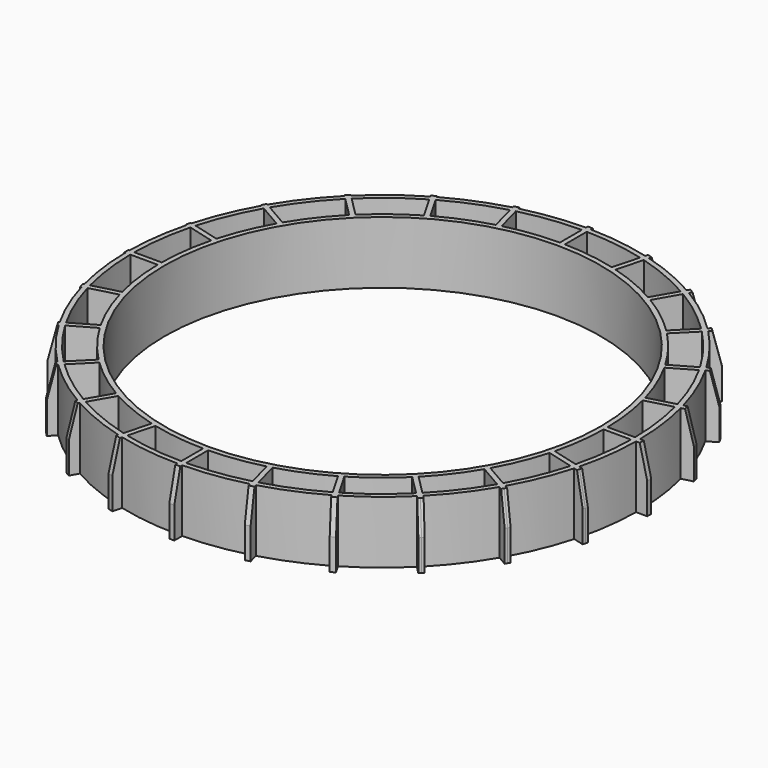
from build123d import *

# Parameters (mm, degrees)
F0_R     = 35
F1_DEPTH = 10
F2_SIZE2 = 5
F2_SIZE  = 1.2


with BuildPart() as f1:
    # F0 (on Top) → F1 (new body)
    with BuildSketch(Plane.XY):
        with BuildLine():
            ThreePointArc((39.5126340711, 10.9431142169), (39.617515779, 10.5571039353), (39.7186265378, 10.1700887876))
            Line((39.7186265378, 10.1700887876), (41.4504177245, 10.6341208376))
            Line((41.4504177245, 10.6341208376), (41.3468901065, 11.0204911681))
            Line((41.3468901065, 11.0204911681), (41.2433624884, 11.4068614986))
            Line((41.2433624884, 11.4068614986), (39.5126340711, 10.9431142168))
        make_face()
        with BuildLine():
            ThreePointArc((35.3606110503, 20.7515586439), (35.5613831067, 20.4055882429), (35.758770275, 20.0576755487))
            Line((35.758770275, 20.0576755487), (37.293139292, 20.9435439137))
            Line((37.293139292, 20.9435439137), (37.093139292, 21.2899540753))
            Line((37.093139292, 21.2899540753), (36.893139292, 21.6363642368))
            Line((36.893139292, 21.6363642368), (35.3606110503, 20.7515586439))
        make_face()
        with BuildLine():
            ThreePointArc((28.8169422428, 29.1647705249), (29.100107127, 28.8822396153), (29.3805021161, 28.5969595483))
            Line((29.3805021161, 28.5969595483), (30.6092416509, 29.8256990831))
            Line((30.6092416509, 29.8256990831), (30.3263989384, 30.1085417955))
            Line((30.3263989384, 30.1085417955), (30.0435562259, 30.391384508))
            Line((30.0435562259, 30.391384508), (28.8169422428, 29.1647705249))
        make_face()
        with BuildLine():
            ThreePointArc((20.316710374, 35.6122349703), (20.6631835614, 35.4123261748), (21.0076899088, 35.2090466315))
            Line((21.0076899088, 35.2090466315), (21.8542213796, 36.6752821492))
            Line((21.8542213796, 36.6752821492), (21.5078112181, 36.8752821492))
            Line((21.5078112181, 36.8752821492), (21.1614010566, 37.0752821492))
            Line((21.1614010566, 37.0752821492), (20.316710374, 35.6122349703))
        make_face()
        with BuildLine():
            ThreePointArc((10.4283605758, 39.6515989047), (10.814714221, 39.5479703186), (11.2000384545, 39.4405773109))
            Line((11.2000384545, 39.4405773109), (11.6247186414, 41.0255053456))
            Line((11.6247186414, 41.0255053456), (11.2383483109, 41.1290329636))
            Line((11.2383483109, 41.1290329636), (10.8519779804, 41.2325605816))
            Line((10.8519779804, 41.2325605816), (10.4283605758, 39.6515989047))
        make_face()
        with BuildLine():
            ThreePointArc((-0.1821428571, 40.9995954124), (0.2178675119, 40.9994211392), (0.6178571429, 40.995344279))
            Line((0.6178571429, 40.995344279), (0.6178571429, 42.5799081505))
            Line((0.6178571429, 42.5799081505), (0.2178571429, 42.5799081505))
            Line((0.2178571429, 42.5799081505), (-0.1821428571, 42.5799081505))
            Line((-0.1821428571, 42.5799081505), (-0.1821428571, 40.9995954124))
        make_face()
        with BuildLine():
            ThreePointArc((-10.7945742739, 39.5534722401), (-10.4081679092, 39.6569040745), (-10.0207708305, 39.7565611184))
            Line((-10.0207708305, 39.7565611184), (-10.4162636947, 41.2325605816))
            Line((-10.4162636947, 41.2325605816), (-10.8026340252, 41.1290329636))
            Line((-10.8026340252, 41.1290329636), (-11.1890043557, 41.0255053456))
            Line((-11.1890043557, 41.0255053456), (-10.7945742739, 39.5534722401))
        make_face()
        with BuildLine():
            ThreePointArc((-20.6827449828, 35.4009047904), (-20.3363822937, 35.6010049746), (-19.9880838715, 35.7977164516))
            Line((-19.9880838715, 35.7977164516), (-20.7256867709, 37.0752821492))
            Line((-20.7256867709, 37.0752821492), (-21.0720969324, 36.8752821492))
            Line((-21.0720969324, 36.8752821492), (-21.4185070939, 36.6752821492))
            Line((-21.4185070939, 36.6752821492), (-20.6827449828, 35.4009047904))
        make_face()
        with BuildLine():
            ThreePointArc((-29.1647705249, 28.8169422428), (-28.8822396153, 29.100107127), (-28.5969595483, 29.3805021161))
            Line((-28.5969595483, 29.3805021161), (-29.6078419402, 30.391384508))
            Line((-29.6078419402, 30.391384508), (-29.8906846527, 30.1085417955))
            Line((-29.8906846527, 30.1085417955), (-30.1735273652, 29.8256990831))
            Line((-30.1735273652, 29.8256990831), (-29.1647705249, 28.8169422428))
        make_face()
        with BuildLine():
            ThreePointArc((-35.6516824789, 20.247408141), (-35.4524493509, 20.5942670427), (-35.2498417036, 20.9391656919))
            Line((-35.2498417036, 20.9391656919), (-36.4574250063, 21.6363642368))
            Line((-36.4574250063, 21.6363642368), (-36.6574250063, 21.2899540753))
            Line((-36.6574250063, 21.2899540753), (-36.8574250063, 20.9435439137))
            Line((-36.8574250063, 20.9435439137), (-35.6516824789, 20.247408141))
        make_face()
        with BuildLine():
            ThreePointArc((-39.6905019844, 10.2793021272), (-39.5883270671, 10.6660376911), (-39.482383979, 11.0517580201))
            Line((-39.482383979, 11.0517580201), (-40.8076482027, 11.4068614986))
            Line((-40.8076482027, 11.4068614986), (-40.9111758208, 11.0204911681))
            Line((-40.9111758208, 11.0204911681), (-41.0147034388, 10.6341208376))
            Line((-41.0147034388, 10.6341208376), (-39.6905019844, 10.2793021272))
        make_face()
        with BuildLine():
            ThreePointArc((-40.9980487341, -0.4), (-41, 0), (-40.9980487341, 0.4))
            Line((-40.9980487341, 0.4), (-42.3620510077, 0.4))
            Line((-42.3620510077, 0.4), (-42.3620510077, 0))
            Line((-42.3620510077, 0), (-42.3620510077, -0.4))
            Line((-42.3620510077, -0.4), (-40.9980487341, -0.4))
        make_face()
        with BuildLine():
            Line((-40.8076482027, -11.4068614986), (-39.482383979, -11.0517580201))
            ThreePointArc((-39.482383979, -11.0517580201), (-39.5883270671, -10.6660376911), (-39.6905019844, -10.2793021272))
            Line((-39.6905019844, -10.2793021272), (-41.0147034388, -10.6341208376))
            Line((-41.0147034388, -10.6341208376), (-40.9111758208, -11.0204911681))
            Line((-40.9111758208, -11.0204911681), (-40.8076482027, -11.4068614986))
        make_face()
        with BuildLine():
            Line((-36.4574250063, -21.6363642368), (-35.2498417036, -20.9391656919))
            ThreePointArc((-35.2498417036, -20.9391656919), (-35.4524493509, -20.5942670427), (-35.6516824789, -20.247408141))
            Line((-35.6516824789, -20.247408141), (-36.8574250063, -20.9435439137))
            Line((-36.8574250063, -20.9435439137), (-36.6574250063, -21.2899540753))
            Line((-36.6574250063, -21.2899540753), (-36.4574250063, -21.6363642368))
        make_face()
        with BuildLine():
            Line((-29.6078419402, -30.391384508), (-28.5969595483, -29.3805021161))
            ThreePointArc((-28.5969595483, -29.3805021161), (-28.8822396153, -29.100107127), (-29.1647705249, -28.8169422428))
            Line((-29.1647705249, -28.8169422428), (-30.1735273652, -29.8256990831))
            Line((-30.1735273652, -29.8256990831), (-29.8906846527, -30.1085417955))
            Line((-29.8906846527, -30.1085417955), (-29.6078419402, -30.391384508))
        make_face()
        with BuildLine():
            Line((-20.7256867709, -37.0752821492), (-19.9880838715, -35.7977164516))
            ThreePointArc((-19.9880838715, -35.7977164516), (-20.3363822937, -35.6010049746), (-20.6827449828, -35.4009047904))
            Line((-20.6827449828, -35.4009047904), (-21.4185070939, -36.6752821492))
            Line((-21.4185070939, -36.6752821492), (-21.0720969324, -36.8752821492))
            Line((-21.0720969324, -36.8752821492), (-20.7256867709, -37.0752821492))
        make_face()
        with BuildLine():
            Line((-10.4162636947, -41.2325605816), (-10.0207708305, -39.7565611184))
            ThreePointArc((-10.0207708305, -39.7565611184), (-10.4081679092, -39.6569040745), (-10.7945742739, -39.5534722401))
            Line((-10.7945742739, -39.5534722401), (-11.1890043557, -41.0255053456))
            Line((-11.1890043557, -41.0255053456), (-10.8026340252, -41.1290329636))
            Line((-10.8026340252, -41.1290329636), (-10.4162636947, -41.2325605816))
        make_face()
        with BuildLine():
            Line((0.6178571429, -42.5799081505), (0.6178571429, -40.995344279))
            ThreePointArc((0.6178571429, -40.995344279), (0.2178675119, -40.9994211392), (-0.1821428571, -40.9995954124))
            Line((-0.1821428571, -40.9995954124), (-0.1821428571, -42.5799081505))
            Line((-0.1821428571, -42.5799081505), (0.2178571429, -42.5799081505))
            Line((0.2178571429, -42.5799081505), (0.6178571429, -42.5799081505))
        make_face()
        with BuildLine():
            Line((11.6247186414, -41.0255053456), (11.2000384545, -39.4405773109))
            ThreePointArc((11.2000384545, -39.4405773109), (10.814714221, -39.5479703186), (10.4283605758, -39.6515989047))
            Line((10.4283605758, -39.6515989047), (10.8519779804, -41.2325605816))
            Line((10.8519779804, -41.2325605816), (11.2383483109, -41.1290329636))
            Line((11.2383483109, -41.1290329636), (11.6247186414, -41.0255053456))
        make_face()
        with BuildLine():
            Line((21.8542213796, -36.6752821492), (21.0076899088, -35.2090466315))
            ThreePointArc((21.0076899088, -35.2090466315), (20.6631835614, -35.4123261748), (20.316710374, -35.6122349703))
            Line((20.316710374, -35.6122349703), (21.1614010566, -37.0752821492))
            Line((21.1614010566, -37.0752821492), (21.5078112181, -36.8752821492))
            Line((21.5078112181, -36.8752821492), (21.8542213796, -36.6752821492))
        make_face()
        with BuildLine():
            Line((30.6092416509, -29.8256990831), (29.3805021161, -28.5969595483))
            ThreePointArc((29.3805021161, -28.5969595483), (29.100107127, -28.8822396153), (28.8169422428, -29.1647705249))
            Line((28.8169422428, -29.1647705249), (30.0435562259, -30.391384508))
            Line((30.0435562259, -30.391384508), (30.3263989384, -30.1085417955))
            Line((30.3263989384, -30.1085417955), (30.6092416509, -29.8256990831))
        make_face()
        with BuildLine():
            Line((37.293139292, -20.9435439137), (35.758770275, -20.0576755487))
            ThreePointArc((35.758770275, -20.0576755487), (35.5613831067, -20.4055882429), (35.3606110503, -20.7515586439))
            Line((35.3606110503, -20.7515586439), (36.893139292, -21.6363642368))
            Line((36.893139292, -21.6363642368), (37.093139292, -21.2899540753))
            Line((37.093139292, -21.2899540753), (37.293139292, -20.9435439137))
        make_face()
        with BuildLine():
            Line((41.4504177245, -10.6341208376), (39.7186265378, -10.1700887876))
            ThreePointArc((39.7186265378, -10.1700887876), (39.617515779, -10.5571039353), (39.5126340711, -10.9431142169))
            Line((39.5126340711, -10.9431142168), (41.2433624884, -11.4068614986))
            Line((41.2433624884, -11.4068614986), (41.3468901065, -11.0204911681))
            Line((41.3468901065, -11.0204911681), (41.4504177245, -10.6341208376))
        make_face()
        with BuildLine():
            Line((42.7977652934, 0.4), (40.9980487341, 0.4))
            ThreePointArc((40.9980487341, 0.4), (40.9995121806, 0.2000023796), (41, 0))
            ThreePointArc((41, 0), (40.9995121806, -0.2000023796), (40.9980487341, -0.4))
            Line((40.9980487341, -0.4), (42.7977652934, -0.4))
            Line((42.7977652934, -0.4), (42.7977652934, 0))
            Line((42.7977652934, 0), (42.7977652934, 0.4))
        make_face()
        with BuildLine():
            ThreePointArc((38.9458370454, 9.9630204672), (39.8597537308, 5.2191984553), (40.198009901, 0.4))
            Line((40.198009901, 0.4), (40.9980487341, 0.4))
            ThreePointArc((40.9980487341, 0.4), (40.6529098032, 5.3236194956), (39.7186265378, 10.1700887876))
            Line((39.7186265378, 10.1700887876), (38.9458370454, 9.9630204672))
        make_face()
        with BuildLine():
            ThreePointArc((35.0658955085, 19.6576441158), (37.1715119605, 15.3074719849), (38.7398657305, 10.736051564))
            Line((38.7398657305, 10.736051564), (39.5126340711, 10.9431142168))
            ThreePointArc((39.5126340711, 10.9431142169), (37.9106170502, 15.6136195314), (35.758770275, 20.0576755487))
            Line((35.758770275, 20.0576755487), (35.0658955085, 19.6576441158))
        make_face()
        with BuildLine():
            ThreePointArc((28.8147640057, 28.0312214379), (31.9726831571, 24.3677559848), (34.66777292, 20.3515483629))
            Line((34.66777292, 20.3515483629), (35.3606110503, 20.7515586439))
            ThreePointArc((35.3606110503, 20.7515586439), (32.6073689884, 24.8547679059), (29.3805021161, 28.5969595483))
            Line((29.3805021161, 28.5969595483), (28.8147640057, 28.0312214379))
        make_face()
        with BuildLine():
            ThreePointArc((20.6076478524, 34.5161534646), (24.6079426814, 31.7881921001), (28.2512464367, 28.5990747188))
            Line((28.2512464367, 28.5990747188), (28.8169422428, 29.1647705249))
            ThreePointArc((28.8169422428, 29.1647705249), (25.0949558811, 32.4228806451), (21.0076899088, 35.2090466315))
            Line((21.0076899088, 35.2090466315), (20.6076478524, 34.5161534646))
        make_face()
        with BuildLine():
            ThreePointArc((10.9929598086, 38.6677492834), (15.5680559054, 37.0631304038), (19.9167049546, 34.9194052605))
            Line((19.9167049546, 34.9194052605), (20.316710374, 35.6122349703))
            ThreePointArc((20.316710374, 35.6122349703), (15.8742059786, 37.8022431153), (11.2000384545, 39.4405773109))
            Line((11.2000384545, 39.4405773109), (10.9929598086, 38.6677492834))
        make_face()
        with BuildLine():
            ThreePointArc((0.6178571429, 40.195251617), (5.4594026249, 39.8275648638), (10.2213030825, 38.8788498196))
            Line((10.2213030825, 38.8788498196), (10.4283605758, 39.6515989047))
            ThreePointArc((10.4283605758, 39.6515989047), (5.563824618, 40.620731845), (0.6178571429, 40.995344279))
            Line((0.6178571429, 40.995344279), (0.6178571429, 40.195251617))
        make_face()
        with BuildLine():
            ThreePointArc((-9.8136921846, 38.9837330909), (-5.0347547057, 39.8834708251), (-0.1821428571, 40.1995873608))
            Line((-0.1821428571, 40.1995873608), (-0.1821428571, 40.9995954124))
            ThreePointArc((-0.1821428571, 40.9995954124), (-5.1391775114, 40.6766376991), (-10.0207708305, 39.7565611184))
            Line((-10.0207708305, 39.7565611184), (-9.8136921846, 38.9837330909))
        make_face()
        with BuildLine():
            ThreePointArc((-19.5880418151, 35.1048232847), (-15.1993139353, 37.2158683346), (-10.5875167806, 38.780723155))
            Line((-10.5875167806, 38.780723155), (-10.7945742739, 39.5534722401))
            ThreePointArc((-10.7945742739, 39.5534722401), (-15.5054647144, 37.9549807534), (-19.9880838715, 35.7977164516))
            Line((-19.9880838715, 35.7977164516), (-19.5880418151, 35.1048232847))
        make_face()
        with BuildLine():
            ThreePointArc((-28.0312214379, 28.8147640057), (-24.3360326628, 31.9968360035), (-20.2827395634, 34.7080750807))
            Line((-20.2827395634, 34.7080750807), (-20.6827449828, 35.4009047904))
            ThreePointArc((-20.6827449828, 35.4009047904), (-24.8230463835, 32.6315241483), (-28.5969595483, 29.3805021161))
            Line((-28.5969595483, 29.3805021161), (-28.0312214379, 28.8147640057))
        make_face()
        with BuildLine():
            ThreePointArc((-34.5569669371, 20.5391342589), (-31.8125850564, 24.5763998997), (-28.5990747188, 28.2512464367))
            Line((-28.5990747188, 28.2512464367), (-29.1647705249, 28.8169422428))
            ThreePointArc((-29.1647705249, 28.8169422428), (-32.4472711947, 25.0634114201), (-35.2498417036, 20.9391656919))
            Line((-35.2498417036, 20.9391656919), (-34.5569669371, 20.5391342589))
        make_face()
        with BuildLine():
            ThreePointArc((-38.7095944866, 10.8446896997), (-37.1082458311, 15.4602099385), (-34.9588443486, 19.8473978599))
            Line((-34.9588443486, 19.8473978599), (-35.6516824789, 20.247408141))
            ThreePointArc((-35.6516824789, 20.247408141), (-37.8473510422, 15.7663571915), (-39.482383979, 11.0517580201))
            Line((-39.482383979, 11.0517580201), (-38.7095944866, 10.8446896997))
        make_face()
        with BuildLine():
            ThreePointArc((-40.198009901, 0.4), (-39.8523935702, 5.275104428), (-38.9177336438, 10.0722394744))
            Line((-38.9177336438, 10.0722394744), (-39.6905019844, 10.2793021272))
            ThreePointArc((-39.6905019844, 10.2793021272), (-40.6455496567, 5.3795253607), (-40.9980487341, 0.4))
            Line((-40.9980487341, 0.4), (-40.198009901, 0.4))
        make_face()
        with BuildLine():
            Line((-39.6905019844, -10.2793021272), (-38.9177336438, -10.0722394744))
            ThreePointArc((-38.9177336438, -10.0722394744), (-39.8523935702, -5.275104428), (-40.198009901, -0.4))
            Line((-40.198009901, -0.4), (-40.9980487341, -0.4))
            ThreePointArc((-40.9980487341, -0.4), (-40.6455496567, -5.3795253607), (-39.6905019844, -10.2793021272))
        make_face()
        with BuildLine():
            Line((-35.6516824789, -20.247408141), (-34.9588443486, -19.8473978599))
            ThreePointArc((-34.9588443486, -19.8473978599), (-37.1082458311, -15.4602099385), (-38.7095944866, -10.8446896997))
            Line((-38.7095944866, -10.8446896997), (-39.482383979, -11.0517580201))
            ThreePointArc((-39.482383979, -11.0517580201), (-37.8473510422, -15.7663571915), (-35.6516824789, -20.247408141))
        make_face()
        with BuildLine():
            Line((-29.1647705249, -28.8169422428), (-28.5990747188, -28.2512464367))
            ThreePointArc((-28.5990747188, -28.2512464367), (-31.8125850564, -24.5763998997), (-34.5569669371, -20.5391342589))
            Line((-34.5569669371, -20.5391342589), (-35.2498417036, -20.9391656919))
            ThreePointArc((-35.2498417036, -20.9391656919), (-32.4472711947, -25.0634114201), (-29.1647705249, -28.8169422428))
        make_face()
        with BuildLine():
            Line((-20.6827449828, -35.4009047904), (-20.2827395634, -34.7080750807))
            ThreePointArc((-20.2827395634, -34.7080750807), (-24.3360326628, -31.9968360035), (-28.0312214379, -28.8147640057))
            Line((-28.0312214379, -28.8147640057), (-28.5969595483, -29.3805021161))
            ThreePointArc((-28.5969595483, -29.3805021161), (-24.8230463835, -32.6315241483), (-20.6827449828, -35.4009047904))
        make_face()
        with BuildLine():
            Line((-10.7945742739, -39.5534722401), (-10.5875167806, -38.780723155))
            ThreePointArc((-10.5875167806, -38.780723155), (-15.1993139353, -37.2158683346), (-19.5880418151, -35.1048232847))
            Line((-19.5880418151, -35.1048232847), (-19.9880838715, -35.7977164516))
            ThreePointArc((-19.9880838715, -35.7977164516), (-15.5054647144, -37.9549807534), (-10.7945742739, -39.5534722401))
        make_face()
        with BuildLine():
            Line((-0.1821428571, -40.9995954124), (-0.1821428571, -40.1995873608))
            ThreePointArc((-0.1821428571, -40.1995873608), (-5.0347547057, -39.8834708251), (-9.8136921846, -38.9837330909))
            Line((-9.8136921846, -38.9837330909), (-10.0207708305, -39.7565611184))
            ThreePointArc((-10.0207708305, -39.7565611184), (-5.1391775114, -40.6766376991), (-0.1821428571, -40.9995954124))
        make_face()
        with BuildLine():
            Line((10.4283605758, -39.6515989047), (10.2213030825, -38.8788498196))
            ThreePointArc((10.2213030825, -38.8788498196), (5.4594026249, -39.8275648638), (0.6178571429, -40.195251617))
            Line((0.6178571429, -40.195251617), (0.6178571429, -40.995344279))
            ThreePointArc((0.6178571429, -40.995344279), (5.563824618, -40.620731845), (10.4283605758, -39.6515989047))
        make_face()
        with BuildLine():
            Line((20.316710374, -35.6122349703), (19.9167049546, -34.9194052605))
            ThreePointArc((19.9167049546, -34.9194052605), (15.5680559054, -37.0631304038), (10.9929598086, -38.6677492834))
            Line((10.9929598086, -38.6677492834), (11.2000384545, -39.4405773109))
            ThreePointArc((11.2000384545, -39.4405773109), (15.8742059786, -37.8022431153), (20.316710374, -35.6122349703))
        make_face()
        with BuildLine():
            Line((28.8169422428, -29.1647705249), (28.2512464367, -28.5990747188))
            ThreePointArc((28.2512464367, -28.5990747188), (24.6079426814, -31.7881921001), (20.6076478524, -34.5161534646))
            Line((20.6076478524, -34.5161534646), (21.0076899088, -35.2090466315))
            ThreePointArc((21.0076899088, -35.2090466315), (25.0949558811, -32.4228806451), (28.8169422428, -29.1647705249))
        make_face()
        with BuildLine():
            Line((35.3606110503, -20.7515586439), (34.66777292, -20.3515483629))
            ThreePointArc((34.66777292, -20.3515483629), (31.9726831571, -24.3677559848), (28.8147640057, -28.0312214379))
            Line((28.8147640057, -28.0312214379), (29.3805021161, -28.5969595483))
            ThreePointArc((29.3805021161, -28.5969595483), (32.6073689884, -24.8547679059), (35.3606110503, -20.7515586439))
        make_face()
        with BuildLine():
            Line((39.5126340711, -10.9431142168), (38.7398657305, -10.736051564))
            ThreePointArc((38.7398657305, -10.736051564), (37.1715119605, -15.3074719849), (35.0658955085, -19.6576441158))
            Line((35.0658955085, -19.6576441158), (35.758770275, -20.0576755487))
            ThreePointArc((35.758770275, -20.0576755487), (37.9106170502, -15.6136195314), (39.5126340711, -10.9431142169))
        make_face()
        with BuildLine():
            Line((40.9980487341, -0.4), (40.198009901, -0.4))
            ThreePointArc((40.198009901, -0.4), (39.8597537308, -5.2191984553), (38.9458370454, -9.9630204672))
            Line((38.9458370454, -9.9630204672), (39.7186265378, -10.1700887876))
            ThreePointArc((39.7186265378, -10.1700887876), (40.6529098032, -5.3236194956), (40.9980487341, -0.4))
        make_face()
        with BuildLine():
            ThreePointArc((38.7398657305, 10.736051564), (38.8447744004, 10.3500483953), (38.9458370454, 9.9630204672))
            Line((38.9458370454, 9.9630204672), (39.7186265378, 10.1700887876))
            ThreePointArc((39.7186265378, 10.1700887876), (39.617515779, 10.5571039353), (39.5126340711, 10.9431142169))
            Line((39.5126340711, 10.9431142168), (38.7398657305, 10.736051564))
        make_face()
        with BuildLine():
            ThreePointArc((34.66777292, 20.3515483629), (34.8685603933, 20.0055866222), (35.0658955085, 19.6576441158))
            Line((35.0658955085, 19.6576441158), (35.758770275, 20.0576755487))
            ThreePointArc((35.758770275, 20.0576755487), (35.5613831067, 20.4055882429), (35.3606110503, 20.7515586439))
            Line((35.3606110503, 20.7515586439), (34.66777292, 20.3515483629))
        make_face()
        with BuildLine():
            ThreePointArc((28.2512464367, 28.5990747188), (28.5344178369, 28.3165499083), (28.8147640057, 28.0312214379))
            Line((28.8147640057, 28.0312214379), (29.3805021161, 28.5969595483))
            ThreePointArc((29.3805021161, 28.5969595483), (29.100107127, 28.8822396153), (28.8169422428, 29.1647705249))
            Line((28.8169422428, 29.1647705249), (28.2512464367, 28.5990747188))
        make_face()
        with BuildLine():
            ThreePointArc((19.9167049546, 34.9194052605), (20.2631795533, 34.7194981875), (20.6076478524, 34.5161534646))
            Line((20.6076478524, 34.5161534646), (21.0076899088, 35.2090466315))
            ThreePointArc((21.0076899088, 35.2090466315), (20.6631835614, 35.4123261748), (20.316710374, 35.6122349703))
            Line((20.316710374, 35.6122349703), (19.9167049546, 34.9194052605))
        make_face()
        with BuildLine():
            ThreePointArc((10.2213030825, 38.8788498196), (10.6076565915, 38.7752191694), (10.9929598086, 38.6677492834))
            Line((10.9929598086, 38.6677492834), (11.2000384545, 39.4405773109))
            ThreePointArc((11.2000384545, 39.4405773109), (10.814714221, 39.5479703186), (10.4283605758, 39.6515989047))
            Line((10.4283605758, 39.6515989047), (10.2213030825, 38.8788498196))
        make_face()
        with BuildLine():
            ThreePointArc((-0.1821428571, 40.1995873608), (0.2178679287, 40.1994096171), (0.6178571429, 40.195251617))
            Line((0.6178571429, 40.195251617), (0.6178571429, 40.995344279))
            ThreePointArc((0.6178571429, 40.995344279), (0.2178675119, 40.9994211392), (-0.1821428571, 40.9995954124))
            Line((-0.1821428571, 40.9995954124), (-0.1821428571, 40.1995873608))
        make_face()
        with BuildLine():
            ThreePointArc((-10.5875167806, 38.780723155), (-10.2011095019, 38.8841531338), (-9.8136921846, 38.9837330909))
            Line((-9.8136921846, 38.9837330909), (-10.0207708305, 39.7565611184))
            ThreePointArc((-10.0207708305, 39.7565611184), (-10.4081679092, 39.6569040745), (-10.7945742739, 39.5534722401))
            Line((-10.7945742739, 39.5534722401), (-10.5875167806, 38.780723155))
        make_face()
        with BuildLine():
            ThreePointArc((-20.2827395634, 34.7080750807), (-19.9363776604, 34.9081773483), (-19.5880418151, 35.1048232847))
            Line((-19.5880418151, 35.1048232847), (-19.9880838715, 35.7977164516))
            ThreePointArc((-19.9880838715, 35.7977164516), (-20.3363822937, 35.6010049746), (-20.6827449828, 35.4009047904))
            Line((-20.6827449828, 35.4009047904), (-20.2827395634, 34.7080750807))
        make_face()
        with BuildLine():
            ThreePointArc((-28.5990747188, 28.2512464367), (-28.3165499083, 28.5344178369), (-28.0312214379, 28.8147640057))
            Line((-28.0312214379, 28.8147640057), (-28.5969595483, 29.3805021161))
            ThreePointArc((-28.5969595483, 29.3805021161), (-28.8822396153, 29.100107127), (-29.1647705249, 28.8169422428))
            Line((-29.1647705249, 28.8169422428), (-28.5990747188, 28.2512464367))
        make_face()
        with BuildLine():
            ThreePointArc((-34.9588443486, 19.8473978599), (-34.7596264291, 20.1942657829), (-34.5569669371, 20.5391342589))
            Line((-34.5569669371, 20.5391342589), (-35.2498417036, 20.9391656919))
            ThreePointArc((-35.2498417036, 20.9391656919), (-35.4524493509, 20.5942670427), (-35.6516824789, 20.247408141))
            Line((-35.6516824789, 20.247408141), (-34.9588443486, 19.8473978599))
        make_face()
        with BuildLine():
            ThreePointArc((-38.9177336438, 10.0722394744), (-38.8155856326, 10.4589823595), (-38.7095944866, 10.8446896997))
            Line((-38.7095944866, 10.8446896997), (-39.482383979, 11.0517580201))
            ThreePointArc((-39.482383979, 11.0517580201), (-39.5883270671, 10.6660376911), (-39.6905019844, 10.2793021272))
            Line((-39.6905019844, 10.2793021272), (-38.9177336438, 10.0722394744))
        make_face()
        with BuildLine():
            ThreePointArc((-40.198009901, -0.4), (-40.2, 0), (-40.198009901, 0.4))
            Line((-40.198009901, 0.4), (-40.9980487341, 0.4))
            ThreePointArc((-40.9980487341, 0.4), (-41, 0), (-40.9980487341, -0.4))
            Line((-40.9980487341, -0.4), (-40.198009901, -0.4))
        make_face()
        with BuildLine():
            Line((-39.482383979, -11.0517580201), (-38.7095944866, -10.8446896997))
            ThreePointArc((-38.7095944866, -10.8446896997), (-38.8155856326, -10.4589823595), (-38.9177336438, -10.0722394744))
            Line((-38.9177336438, -10.0722394744), (-39.6905019844, -10.2793021272))
            ThreePointArc((-39.6905019844, -10.2793021272), (-39.5883270671, -10.6660376911), (-39.482383979, -11.0517580201))
        make_face()
        with BuildLine():
            Line((-35.2498417036, -20.9391656919), (-34.5569669371, -20.5391342589))
            ThreePointArc((-34.5569669371, -20.5391342589), (-34.7596264291, -20.1942657829), (-34.9588443486, -19.8473978599))
            Line((-34.9588443486, -19.8473978599), (-35.6516824789, -20.247408141))
            ThreePointArc((-35.6516824789, -20.247408141), (-35.4524493509, -20.5942670427), (-35.2498417036, -20.9391656919))
        make_face()
        with BuildLine():
            Line((-28.5969595483, -29.3805021161), (-28.0312214379, -28.8147640057))
            ThreePointArc((-28.0312214379, -28.8147640057), (-28.3165499083, -28.5344178369), (-28.5990747188, -28.2512464367))
            Line((-28.5990747188, -28.2512464367), (-29.1647705249, -28.8169422428))
            ThreePointArc((-29.1647705249, -28.8169422428), (-28.8822396153, -29.100107127), (-28.5969595483, -29.3805021161))
        make_face()
        with BuildLine():
            Line((-19.9880838715, -35.7977164516), (-19.5880418151, -35.1048232847))
            ThreePointArc((-19.5880418151, -35.1048232847), (-19.9363776604, -34.9081773483), (-20.2827395634, -34.7080750807))
            Line((-20.2827395634, -34.7080750807), (-20.6827449828, -35.4009047904))
            ThreePointArc((-20.6827449828, -35.4009047904), (-20.3363822937, -35.6010049746), (-19.9880838715, -35.7977164516))
        make_face()
        with BuildLine():
            Line((-10.0207708305, -39.7565611184), (-9.8136921846, -38.9837330909))
            ThreePointArc((-9.8136921846, -38.9837330909), (-10.2011095019, -38.8841531338), (-10.5875167806, -38.780723155))
            Line((-10.5875167806, -38.780723155), (-10.7945742739, -39.5534722401))
            ThreePointArc((-10.7945742739, -39.5534722401), (-10.4081679092, -39.6569040745), (-10.0207708305, -39.7565611184))
        make_face()
        with BuildLine():
            Line((0.6178571429, -40.995344279), (0.6178571429, -40.195251617))
            ThreePointArc((0.6178571429, -40.195251617), (0.2178679287, -40.1994096171), (-0.1821428571, -40.1995873608))
            Line((-0.1821428571, -40.1995873608), (-0.1821428571, -40.9995954124))
            ThreePointArc((-0.1821428571, -40.9995954124), (0.2178675119, -40.9994211392), (0.6178571429, -40.995344279))
        make_face()
        with BuildLine():
            Line((11.2000384545, -39.4405773109), (10.9929598086, -38.6677492834))
            ThreePointArc((10.9929598086, -38.6677492834), (10.6076565915, -38.7752191694), (10.2213030825, -38.8788498196))
            Line((10.2213030825, -38.8788498196), (10.4283605758, -39.6515989047))
            ThreePointArc((10.4283605758, -39.6515989047), (10.814714221, -39.5479703186), (11.2000384545, -39.4405773109))
        make_face()
        with BuildLine():
            Line((21.0076899088, -35.2090466315), (20.6076478524, -34.5161534646))
            ThreePointArc((20.6076478524, -34.5161534646), (20.2631795533, -34.7194981875), (19.9167049546, -34.9194052605))
            Line((19.9167049546, -34.9194052605), (20.316710374, -35.6122349703))
            ThreePointArc((20.316710374, -35.6122349703), (20.6631835614, -35.4123261748), (21.0076899088, -35.2090466315))
        make_face()
        with BuildLine():
            Line((29.3805021161, -28.5969595483), (28.8147640057, -28.0312214379))
            ThreePointArc((28.8147640057, -28.0312214379), (28.5344178369, -28.3165499083), (28.2512464367, -28.5990747188))
            Line((28.2512464367, -28.5990747188), (28.8169422428, -29.1647705249))
            ThreePointArc((28.8169422428, -29.1647705249), (29.100107127, -28.8822396153), (29.3805021161, -28.5969595483))
        make_face()
        with BuildLine():
            Line((35.758770275, -20.0576755487), (35.0658955085, -19.6576441158))
            ThreePointArc((35.0658955085, -19.6576441158), (34.8685603933, -20.0055866222), (34.66777292, -20.3515483629))
            Line((34.66777292, -20.3515483629), (35.3606110503, -20.7515586439))
            ThreePointArc((35.3606110503, -20.7515586439), (35.5613831067, -20.4055882429), (35.758770275, -20.0576755487))
        make_face()
        with BuildLine():
            Line((39.7186265378, -10.1700887876), (38.9458370454, -9.9630204672))
            ThreePointArc((38.9458370454, -9.9630204672), (38.8447744004, -10.3500483953), (38.7398657305, -10.736051564))
            Line((38.7398657305, -10.736051564), (39.5126340711, -10.9431142168))
            ThreePointArc((39.5126340711, -10.9431142169), (39.617515779, -10.5571039353), (39.7186265378, -10.1700887876))
        make_face()
        with BuildLine():
            Line((40.9980487341, 0.4), (40.198009901, 0.4))
            ThreePointArc((40.198009901, 0.4), (40.1995024722, 0.2000024753), (40.2, 0))
            ThreePointArc((40.2, 0), (40.1995024722, -0.2000024753), (40.198009901, -0.4))
            Line((40.198009901, -0.4), (40.9980487341, -0.4))
            ThreePointArc((40.9980487341, -0.4), (40.9995121806, -0.2000023796), (41, 0))
            ThreePointArc((41, 0), (40.9995121806, 0.2000023796), (40.9980487341, 0.4))
        make_face()
        with BuildLine():
            ThreePointArc((-31.1482204056, 17.6473331007), (-30.9490982352, 17.9942579293), (-30.7461122215, 18.3389362631))
            Line((-30.7461122215, 18.3389362631), (-34.5569669371, 20.5391342589))
            ThreePointArc((-34.5569669371, 20.5391342589), (-34.7596264291, 20.1942657829), (-34.9588443486, 19.8473978599))
            Line((-34.9588443486, 19.8473978599), (-31.1482204056, 17.6473331007))
        make_face()
        with BuildLine():
            ThreePointArc((35.7977652934, -0.4), (35.799441319, -0.2000031212), (35.8, 0))
            ThreePointArc((35.8, 0), (35.799441319, 0.2000031212), (35.7977652934, 0.4))
            ThreePointArc((35.7977652934, 0.4), (35.4973951902, 4.6448826371), (34.6954558224, 8.824134251))
            ThreePointArc((34.6954558224, 8.824134251), (34.5946962571, 9.2112426349), (34.4896177428, 9.5972010481))
            ThreePointArc((34.4896177428, 9.5972010481), (33.1064328287, 13.6236597637), (31.255040793, 17.4574461199))
            ThreePointArc((31.255040793, 17.4574461199), (31.0580336067, 17.8055763312), (30.857148977, 18.1514836036))
            ThreePointArc((30.857148977, 18.1514836036), (28.4819086379, 21.6891880978), (25.7031623018, 24.919619734))
            ThreePointArc((25.7031623018, 24.919619734), (25.4231237465, 25.2052530035), (25.1399112094, 25.4877394915))
            ThreePointArc((25.1399112094, 25.4877394915), (21.9293669691, 28.2974003106), (18.4073829378, 30.7051828424))
            ThreePointArc((18.4073829378, 30.7051828424), (18.0631544471, 30.9089380507), (17.7166708183, 31.108834358))
            ThreePointArc((17.7166708183, 31.108834358), (13.8842280123, 32.9980031593), (9.854008551, 34.4171253227))
            ThreePointArc((9.854008551, 34.4171253227), (9.4688378925, 34.5250794201), (9.082485066, 34.6287231215))
            ThreePointArc((9.082485066, 34.6287231215), (4.8850810197, 35.4651375781), (0.6178571429, 35.7946679346))
            ThreePointArc((0.6178571429, 35.7946679346), (0.2178707433, 35.7993370377), (-0.1821428571, 35.7995366448))
            ThreePointArc((-0.1821428571, 35.7995366448), (-4.4604276143, 35.5210442625), (-8.674740927, 34.7331091302))
            ThreePointArc((-8.674740927, 34.7331091302), (-9.0622855508, 34.6340147917), (-9.4486987641, 34.5305964568))
            ThreePointArc((-9.4486987641, 34.5305964568), (-13.515481276, 33.1507430668), (-17.3877769004, 31.2938526625))
            ThreePointArc((-17.3877769004, 31.2938526625), (-17.7363483323, 31.097619649), (-18.082705427, 30.8975041782))
            ThreePointArc((-18.082705427, 30.8975041782), (-21.6574534328, 28.5060469165), (-24.919619734, 25.7031623018))
            ThreePointArc((-24.919619734, 25.7031623018), (-25.2052530035, 25.4231237465), (-25.4877394915, 25.1399112094))
            ThreePointArc((-25.4877394915, 25.1399112094), (-28.3218084641, 21.8978347177), (-30.7461122215, 18.3389362631))
            ThreePointArc((-30.7461122215, 18.3389362631), (-30.9490982352, 17.9942579293), (-31.1482204056, 17.6473331007))
            ThreePointArc((-31.1482204056, 17.6473331007), (-33.0431658793, 13.7763996992), (-34.4592132635, 9.7058034834))
            ThreePointArc((-34.4592132635, 9.7058034834), (-34.5655071123, 9.3201780063), (-34.6674856561, 8.9333889585))
            ThreePointArc((-34.6674856561, 8.9333889585), (-35.4900349341, 4.7007893356), (-35.7977652934, 0.4))
            ThreePointArc((-35.7977652934, 0.4), (-35.8, 0), (-35.7977652934, -0.4))
            ThreePointArc((-35.7977652934, -0.4), (-35.4900349341, -4.7007893356), (-34.6674856561, -8.9333889585))
            ThreePointArc((-34.6674856561, -8.9333889585), (-34.5655071123, -9.3201780063), (-34.4592132635, -9.7058034834))
            ThreePointArc((-34.4592132635, -9.7058034834), (-33.0431658793, -13.7763996992), (-31.1482204056, -17.6473331007))
            ThreePointArc((-31.1482204056, -17.6473331007), (-30.9490982352, -17.9942579293), (-30.7461122215, -18.3389362631))
            ThreePointArc((-30.7461122215, -18.3389362631), (-28.3218084641, -21.8978347177), (-25.4877394915, -25.1399112094))
            ThreePointArc((-25.4877394915, -25.1399112094), (-25.2052530035, -25.4231237465), (-24.919619734, -25.7031623018))
            ThreePointArc((-24.919619734, -25.7031623018), (-21.6574534328, -28.5060469165), (-18.082705427, -30.8975041782))
            ThreePointArc((-18.082705427, -30.8975041782), (-17.7363483323, -31.097619649), (-17.3877769004, -31.2938526625))
            ThreePointArc((-17.3877769004, -31.2938526625), (-13.515481276, -33.1507430668), (-9.4486987641, -34.5305964568))
            ThreePointArc((-9.4486987641, -34.5305964568), (-9.0622855508, -34.6340147917), (-8.674740927, -34.7331091302))
            ThreePointArc((-8.674740927, -34.7331091302), (-4.4604276143, -35.5210442625), (-0.1821428571, -35.7995366448))
            ThreePointArc((-0.1821428571, -35.7995366448), (0.2178707433, -35.7993370377), (0.6178571429, -35.7946679346))
            ThreePointArc((0.6178571429, -35.7946679346), (4.8850810197, -35.4651375781), (9.082485066, -34.6287231215))
            ThreePointArc((9.082485066, -34.6287231215), (9.4688378925, -34.5250794201), (9.854008551, -34.4171253227))
            ThreePointArc((9.854008551, -34.4171253227), (13.8842280123, -32.9980031593), (17.7166708183, -31.108834358))
            ThreePointArc((17.7166708183, -31.108834358), (18.0631544471, -30.9089380507), (18.4073829378, -30.7051828424))
            ThreePointArc((18.4073829378, -30.7051828424), (21.9293669691, -28.2974003106), (25.1399112094, -25.4877394915))
            ThreePointArc((25.1399112094, -25.4877394915), (25.4231237465, -25.2052530035), (25.7031623018, -24.919619734))
            ThreePointArc((25.7031623018, -24.919619734), (28.4819086379, -21.6891880978), (30.857148977, -18.1514836036))
            ThreePointArc((30.857148977, -18.1514836036), (31.0580336067, -17.8055763312), (31.255040793, -17.4574461199))
            ThreePointArc((31.255040793, -17.4574461199), (33.1064328287, -13.6236597637), (34.4896177428, -9.5972010481))
            ThreePointArc((34.4896177428, -9.5972010481), (34.5946962571, -9.2112426349), (34.6954558224, -8.824134251))
            ThreePointArc((34.6954558224, -8.824134251), (35.4973951902, -4.6448826371), (35.7977652934, -0.4))
        make_face()
        Circle(F0_R, mode=Mode.SUBTRACT)
        with BuildLine():
            ThreePointArc((-25.4877394915, 25.1399112094), (-25.2052530035, 25.4231237465), (-24.919619734, 25.7031623018))
            Line((-24.919619734, 25.7031623018), (-28.0312214379, 28.8147640057))
            ThreePointArc((-28.0312214379, 28.8147640057), (-28.3165499083, 28.5344178369), (-28.5990747188, 28.2512464367))
            Line((-28.5990747188, 28.2512464367), (-25.4877394915, 25.1399112094))
        make_face()
        with BuildLine():
            ThreePointArc((-18.082705427, 30.8975041782), (-17.7363483323, 31.097619649), (-17.3877769004, 31.2938526625))
            Line((-17.3877769004, 31.2938526625), (-19.5880418151, 35.1048232847))
            ThreePointArc((-19.5880418151, 35.1048232847), (-19.9363776604, 34.9081773483), (-20.2827395634, 34.7080750807))
            Line((-20.2827395634, 34.7080750807), (-18.082705427, 30.8975041782))
        make_face()
        with BuildLine():
            ThreePointArc((-9.4486987641, 34.5305964568), (-9.0622855508, 34.6340147917), (-8.674740927, 34.7331091302))
            Line((-8.674740927, 34.7331091302), (-9.8136921846, 38.9837330909))
            ThreePointArc((-9.8136921846, 38.9837330909), (-10.2011095019, 38.8841531338), (-10.5875167806, 38.780723155))
            Line((-10.5875167806, 38.780723155), (-9.4486987641, 34.5305964568))
        make_face()
        with BuildLine():
            ThreePointArc((-0.1821428571, 35.7995366448), (0.2178707433, 35.7993370377), (0.6178571429, 35.7946679346))
            Line((0.6178571429, 35.7946679346), (0.6178571429, 40.195251617))
            ThreePointArc((0.6178571429, 40.195251617), (0.2178679287, 40.1994096171), (-0.1821428571, 40.1995873608))
            Line((-0.1821428571, 40.1995873608), (-0.1821428571, 35.7995366448))
        make_face()
        with BuildLine():
            ThreePointArc((9.082485066, 34.6287231215), (9.4688378925, 34.5250794201), (9.854008551, 34.4171253227))
            Line((9.854008551, 34.4171253227), (10.9929598086, 38.6677492834))
            ThreePointArc((10.9929598086, 38.6677492834), (10.6076565915, 38.7752191694), (10.2213030825, 38.8788498196))
            Line((10.2213030825, 38.8788498196), (9.082485066, 34.6287231215))
        make_face()
        with BuildLine():
            ThreePointArc((17.7166708183, 31.108834358), (18.0631544471, 30.9089380507), (18.4073829378, 30.7051828424))
            Line((18.4073829378, 30.7051828424), (20.6076478524, 34.5161534646))
            ThreePointArc((20.6076478524, 34.5161534646), (20.2631795533, 34.7194981875), (19.9167049546, 34.9194052605))
            Line((19.9167049546, 34.9194052605), (17.7166708183, 31.108834358))
        make_face()
        with BuildLine():
            ThreePointArc((25.1399112094, 25.4877394915), (25.4231237465, 25.2052530035), (25.7031623018, 24.919619734))
            Line((25.7031623018, 24.919619734), (28.8147640057, 28.0312214379))
            ThreePointArc((28.8147640057, 28.0312214379), (28.5344178369, 28.3165499083), (28.2512464367, 28.5990747188))
            Line((28.2512464367, 28.5990747188), (25.1399112094, 25.4877394915))
        make_face()
        with BuildLine():
            ThreePointArc((30.857148977, 18.1514836036), (31.0580336067, 17.8055763312), (31.255040793, 17.4574461199))
            Line((31.255040793, 17.4574461199), (35.0658955085, 19.6576441158))
            ThreePointArc((35.0658955085, 19.6576441158), (34.8685603933, 20.0055866222), (34.66777292, 20.3515483629))
            Line((34.66777292, 20.3515483629), (30.857148977, 18.1514836036))
        make_face()
        with BuildLine():
            ThreePointArc((34.4896177428, 9.5972010481), (34.5946962571, 9.2112426349), (34.6954558224, 8.824134251))
            Line((34.6954558224, 8.824134251), (38.9458370454, 9.9630204672))
            ThreePointArc((38.9458370454, 9.9630204672), (38.8447744004, 10.3500483953), (38.7398657305, 10.736051564))
            Line((38.7398657305, 10.736051564), (34.4896177428, 9.5972010481))
        make_face()
        with BuildLine():
            ThreePointArc((35.7977652934, 0.4), (35.799441319, 0.2000031212), (35.8, 0))
            ThreePointArc((35.8, 0), (35.799441319, -0.2000031212), (35.7977652934, -0.4))
            Line((35.7977652934, -0.4), (40.198009901, -0.4))
            ThreePointArc((40.198009901, -0.4), (40.1995024722, -0.2000024753), (40.2, 0))
            ThreePointArc((40.2, 0), (40.1995024722, 0.2000024753), (40.198009901, 0.4))
            Line((40.198009901, 0.4), (35.7977652934, 0.4))
        make_face()
        with BuildLine():
            Line((38.9458370454, -9.9630204672), (34.6954558224, -8.824134251))
            ThreePointArc((34.6954558224, -8.824134251), (34.5946962571, -9.2112426349), (34.4896177428, -9.5972010481))
            Line((34.4896177428, -9.5972010481), (38.7398657305, -10.736051564))
            ThreePointArc((38.7398657305, -10.736051564), (38.8447744004, -10.3500483953), (38.9458370454, -9.9630204672))
        make_face()
        with BuildLine():
            Line((35.0658955085, -19.6576441158), (31.255040793, -17.4574461199))
            ThreePointArc((31.255040793, -17.4574461199), (31.0580336067, -17.8055763312), (30.857148977, -18.1514836036))
            Line((30.857148977, -18.1514836036), (34.66777292, -20.3515483629))
            ThreePointArc((34.66777292, -20.3515483629), (34.8685603933, -20.0055866222), (35.0658955085, -19.6576441158))
        make_face()
        with BuildLine():
            Line((28.8147640057, -28.0312214379), (25.7031623018, -24.919619734))
            ThreePointArc((25.7031623018, -24.919619734), (25.4231237465, -25.2052530035), (25.1399112094, -25.4877394915))
            Line((25.1399112094, -25.4877394915), (28.2512464367, -28.5990747188))
            ThreePointArc((28.2512464367, -28.5990747188), (28.5344178369, -28.3165499083), (28.8147640057, -28.0312214379))
        make_face()
        with BuildLine():
            Line((20.6076478524, -34.5161534646), (18.4073829378, -30.7051828424))
            ThreePointArc((18.4073829378, -30.7051828424), (18.0631544471, -30.9089380507), (17.7166708183, -31.108834358))
            Line((17.7166708183, -31.108834358), (19.9167049546, -34.9194052605))
            ThreePointArc((19.9167049546, -34.9194052605), (20.2631795533, -34.7194981875), (20.6076478524, -34.5161534646))
        make_face()
        with BuildLine():
            Line((10.9929598086, -38.6677492834), (9.854008551, -34.4171253227))
            ThreePointArc((9.854008551, -34.4171253227), (9.4688378925, -34.5250794201), (9.082485066, -34.6287231215))
            Line((9.082485066, -34.6287231215), (10.2213030825, -38.8788498196))
            ThreePointArc((10.2213030825, -38.8788498196), (10.6076565915, -38.7752191694), (10.9929598086, -38.6677492834))
        make_face()
        with BuildLine():
            Line((0.6178571429, -40.195251617), (0.6178571429, -35.7946679346))
            ThreePointArc((0.6178571429, -35.7946679346), (0.2178707433, -35.7993370377), (-0.1821428571, -35.7995366448))
            Line((-0.1821428571, -35.7995366448), (-0.1821428571, -40.1995873608))
            ThreePointArc((-0.1821428571, -40.1995873608), (0.2178679287, -40.1994096171), (0.6178571429, -40.195251617))
        make_face()
        with BuildLine():
            Line((-9.8136921846, -38.9837330909), (-8.674740927, -34.7331091302))
            ThreePointArc((-8.674740927, -34.7331091302), (-9.0622855508, -34.6340147917), (-9.4486987641, -34.5305964568))
            Line((-9.4486987641, -34.5305964568), (-10.5875167806, -38.780723155))
            ThreePointArc((-10.5875167806, -38.780723155), (-10.2011095019, -38.8841531338), (-9.8136921846, -38.9837330909))
        make_face()
        with BuildLine():
            Line((-19.5880418151, -35.1048232847), (-17.3877769004, -31.2938526625))
            ThreePointArc((-17.3877769004, -31.2938526625), (-17.7363483323, -31.097619649), (-18.082705427, -30.8975041782))
            Line((-18.082705427, -30.8975041782), (-20.2827395634, -34.7080750807))
            ThreePointArc((-20.2827395634, -34.7080750807), (-19.9363776604, -34.9081773483), (-19.5880418151, -35.1048232847))
        make_face()
        with BuildLine():
            Line((-28.0312214379, -28.8147640057), (-24.919619734, -25.7031623018))
            ThreePointArc((-24.919619734, -25.7031623018), (-25.2052530035, -25.4231237465), (-25.4877394915, -25.1399112094))
            Line((-25.4877394915, -25.1399112094), (-28.5990747188, -28.2512464367))
            ThreePointArc((-28.5990747188, -28.2512464367), (-28.3165499083, -28.5344178369), (-28.0312214379, -28.8147640057))
        make_face()
        with BuildLine():
            Line((-34.5569669371, -20.5391342589), (-30.7461122215, -18.3389362631))
            ThreePointArc((-30.7461122215, -18.3389362631), (-30.9490982352, -17.9942579293), (-31.1482204056, -17.6473331007))
            Line((-31.1482204056, -17.6473331007), (-34.9588443486, -19.8473978599))
            ThreePointArc((-34.9588443486, -19.8473978599), (-34.7596264291, -20.1942657829), (-34.5569669371, -20.5391342589))
        make_face()
        with BuildLine():
            Line((-38.7095944866, -10.8446896997), (-34.4592132635, -9.7058034834))
            ThreePointArc((-34.4592132635, -9.7058034834), (-34.5655071123, -9.3201780063), (-34.6674856561, -8.9333889585))
            Line((-34.6674856561, -8.9333889585), (-38.9177336438, -10.0722394744))
            ThreePointArc((-38.9177336438, -10.0722394744), (-38.8155856326, -10.4589823595), (-38.7095944866, -10.8446896997))
        make_face()
        with BuildLine():
            ThreePointArc((-35.7977652934, -0.4), (-35.8, 0), (-35.7977652934, 0.4))
            Line((-35.7977652934, 0.4), (-40.198009901, 0.4))
            ThreePointArc((-40.198009901, 0.4), (-40.2, 0), (-40.198009901, -0.4))
            Line((-40.198009901, -0.4), (-35.7977652934, -0.4))
        make_face()
        with BuildLine():
            ThreePointArc((-34.6674856561, 8.9333889585), (-34.5655071123, 9.3201780063), (-34.4592132635, 9.7058034834))
            Line((-34.4592132635, 9.7058034834), (-38.7095944866, 10.8446896997))
            ThreePointArc((-38.7095944866, 10.8446896997), (-38.8155856326, 10.4589823595), (-38.9177336438, 10.0722394744))
            Line((-38.9177336438, 10.0722394744), (-34.6674856561, 8.9333889585))
        make_face()
    extrude(amount=F1_DEPTH)

    # F2
    f2_edges = [f1.edges().sort_by_distance(p)[0] for p in [
        (-21.072097, -36.875282, 10),
        (-10.802634, -41.129033, 10),
        (0.217857, -42.579908, 10),
        (11.238348, -41.129033, 10),
        (21.507811, -36.875282, 10),
        (30.326399, -30.108542, 10),
        (37.093139, -21.289954, 10),
        (-29.890685, -30.108542, 10),
        (-36.657425, -21.289954, 10),
        (-40.911176, -11.020491, 10),
        (-42.362051, 0, 10),
        (-40.911176, 11.020491, 10),
        (-36.657425, 21.289954, 10),
        (-29.890685, 30.108542, 10),
        (-21.072097, 36.875282, 10),
        (-10.802634, 41.129033, 10),
        (0.217857, 42.579908, 10),
        (11.238348, 41.129033, 10),
        (21.507811, 36.875282, 10),
        (30.326399, 30.108542, 10),
        (37.093139, 21.289954, 10),
        (41.34689, -11.020491, 10),
        (42.797765, 0, 10),
        (41.34689, 11.020491, 10),
    ]]
    f2_side = f1.faces().sort_by_distance((40.553351, 10.518435, 10))[0]
    chamfer(f2_edges, length=F2_SIZE, length2=F2_SIZE2, reference=f2_side)


solid = f1.part
